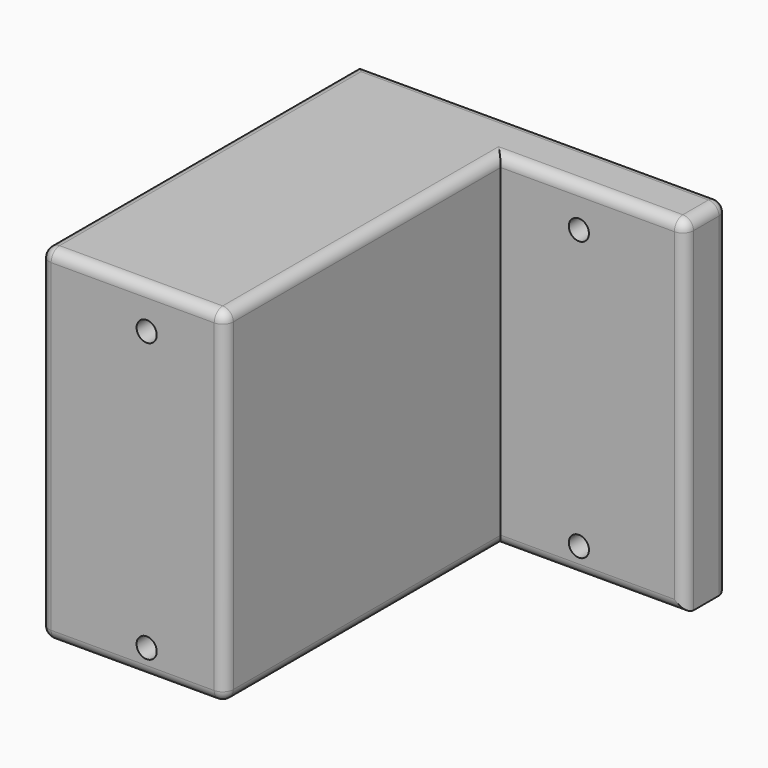
from build123d import *

# Parameters (mm, degrees)
F0_W     = 88.2142
F0_H     = 82.55
F1_DEPTH = 95.25
F2_W     = 44.1071
F2_H     = 82.55
F3_DEPTH = 82.55
F4_R     = 2.54
F5_R     = 2.413
F6_DEPTH = 19.05
F7_DEPTH = 127


with BuildPart() as f1:
    # F0 (on Front) → F1 (new body)
    with BuildSketch(Plane.XZ):
        with Locations((44.1071, 41.275)):
            Rectangle(F0_W, F0_H)
    extrude(amount=F1_DEPTH)

    # F2 (on face) → F3 (cut)
    with BuildSketch(Plane.XZ.offset(95.25)):
        with Locations((66.16065, 41.275)):
            Rectangle(F2_W, F2_H)
    extrude(amount=-F3_DEPTH, mode=Mode.SUBTRACT)

    # F4
    f4_edges = [f1.edges().sort_by_distance(p)[0] for p in [
        (44.1071, -95.25, 41.275),
        (88.2142, 0, 41.275),
        (88.2142, -12.7, 41.275),
        (0, -47.625, 0),
        (22.05355, -95.25, 0),
        (0, -95.25, 41.275),
        (22.05355, -95.25, 82.55),
        (0, -47.625, 82.55),
        (44.1071, 0, 82.55),
        (44.1071, -53.975, 82.55),
        (66.16065, -12.7, 82.55),
        (88.2142, -6.35, 82.55),
        (44.1071, -53.975, 0),
        (66.16065, -12.7, 0),
        (44.1071, 0, 0),
    ]]
    fillet(f4_edges, radius=F4_R)

    # F5 (on face) → F6 (cut)
    with BuildSketch(Plane.XZ.offset(95.25)):
        with BuildLine():
            ThreePointArc((27.813, 6.2865), (25.4, 8.6995), (22.987, 6.2865))
            ThreePointArc((22.987, 6.2865), (25.4, 3.8735), (27.813, 6.2865))
        make_face()
        with Locations((25.4, 72.9615)):
            Circle(F5_R)
    extrude(amount=-F6_DEPTH, mode=Mode.SUBTRACT)

    # F5 (on face) → F7 (cut)
    with BuildSketch(Plane.XZ.offset(95.25)):
        with Locations((62.8142, 6.2865)):
            Circle(F5_R)
        with Locations((62.8142, 72.9615)):
            Circle(F5_R)
    extrude(amount=-F7_DEPTH, mode=Mode.SUBTRACT)


solid = f1.part
